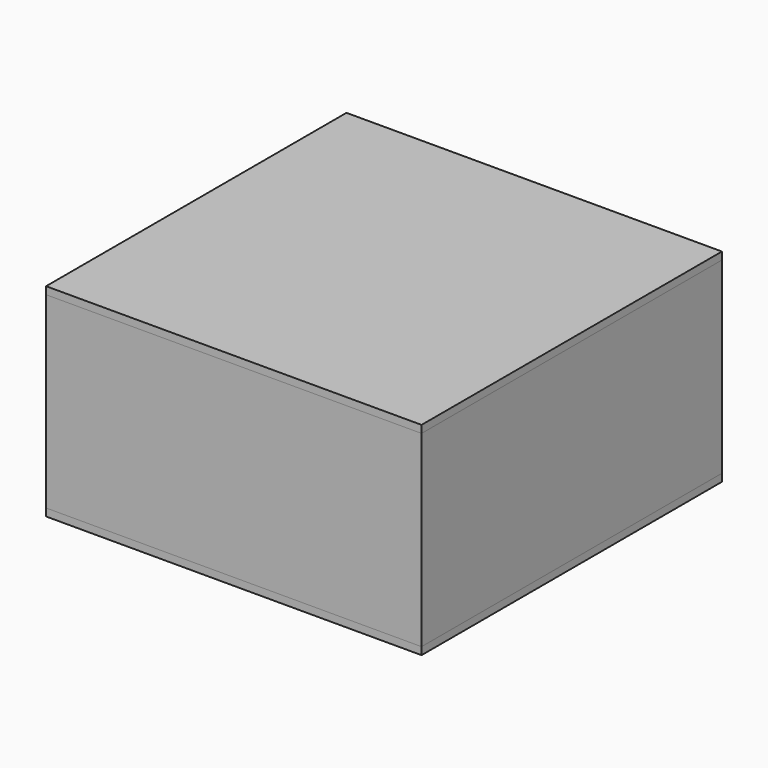
from build123d import *

# Parameters (mm, degrees)
F0_W     = 5000
F0_H     = 5000
F1_DEPTH = 100
F2_W     = 5000
F2_H     = 5000
F2_W_2   = 4800
F2_H_2   = 4800
F3_DEPTH = 700
F4_W     = 5000
F4_H     = 5000
F4_W_2   = 4800
F4_H_2   = 4800
F4_W_3   = 4600
F4_H_3   = 4600
F5_DEPTH = 1800
F6_W     = 5000
F6_H     = 5000
F6_W_2   = 4600
F6_H_2   = 4600
F7_DEPTH = 100
F8_W     = 1500
F8_H     = 1000
F9_DEPTH = 200
F10_R    = 10
F11_R    = 10
F12_R    = 10


with BuildPart() as f1:
    # F0 (on Top) → F1 (new body)
    with BuildSketch(Plane.XY):
        Rectangle(F0_W, F0_H)
    extrude(amount=F1_DEPTH)


with BuildPart() as f3:
    # F2 (on face) → F3 (new body)
    with BuildSketch(Plane.XY.offset(100)):
        Rectangle(F2_W, F2_H)
        Rectangle(F2_W_2, F2_H_2, mode=Mode.SUBTRACT)
    extrude(amount=F3_DEPTH)

    # F4 (on face) → F5 (join)
    with BuildSketch(Plane.XY.offset(800)):
        Rectangle(F4_W, F4_H)
        Rectangle(F4_W_2, F4_H_2, mode=Mode.SUBTRACT)
        Rectangle(F4_W_2, F4_H_2)
        Rectangle(F4_W_3, F4_H_3, mode=Mode.SUBTRACT)
    extrude(amount=F5_DEPTH)

    # F8 (on face) → F9 (cut, through all)
    with BuildSketch(Plane(origin=(-2500, 0, 0), x_dir=(0, -1, 0), z_dir=(-1, 0, 0))):
        with Locations((-1019.208073616, 1530.4200649261)):
            Rectangle(F8_W, F8_H)
    extrude(amount=-F9_DEPTH, mode=Mode.SUBTRACT)

    # F10
    f10_edges = [f3.edges().sort_by_distance(p)[0] for p in [
        (-2300, 2300, 1700),
        (2300, 2300, 1700),
        (2300, -2300, 1700),
        (-2300, -2300, 1700),
        (-2400, -2400, 450),
        (-2400, 2400, 450),
        (2400, 2400, 450),
        (2400, -2400, 450),
    ]]
    fillet(f10_edges, radius=F10_R)

    # F11
    f11_edges = [f3.edges().sort_by_distance(p)[0] for p in [
        (0, 2300, 800),
        (0, 2400, 800),
    ]]
    fillet(f11_edges, radius=F11_R)

    # F12
    f12_edges = [f3.edges().sort_by_distance(p)[0] for p in [
        (-2400, 1769.208074, 1030.420065),
        (-2400, 269.208074, 1030.420065),
        (-2500, 1019.208074, 1030.420065),
        (-2300, 1019.208074, 1030.420065),
        (-2400, 1769.208074, 2030.420065),
        (-2500, 1769.208074, 1530.420065),
        (-2300, 1769.208074, 1530.420065),
        (-2400, 269.208074, 2030.420065),
        (-2500, 269.208074, 1530.420065),
        (-2300, 269.208074, 1530.420065),
        (-2500, 1019.208074, 2030.420065),
        (-2300, 1019.208074, 2030.420065),
    ]]
    fillet(f12_edges, radius=F12_R)


with BuildPart() as f7:
    # F6 (on face) → F7 (new body)
    with BuildSketch(Plane.XY.offset(2600)):
        Rectangle(F6_W, F6_H)
        Rectangle(F6_W_2, F6_H_2, mode=Mode.SUBTRACT)
        Rectangle(F6_W_2, F6_H_2)
    extrude(amount=F7_DEPTH)


solid = Compound([f1.part, f3.part, f7.part])
